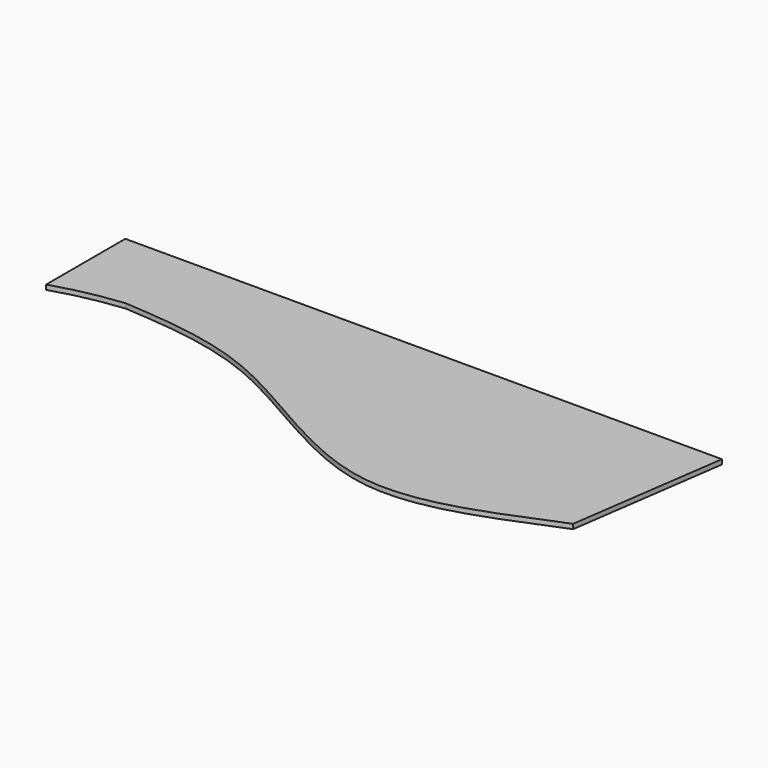
from build123d import *

# Parameters (mm, degrees)
F1_DEPTH = 50.8


with BuildPart() as f1:
    # F0 (on Top) → F1 (new body)
    with BuildSketch(Plane.XY):
        with BuildLine():
            Line((0, 5181.6), (0, 4114.8))
            ThreePointArc((0, 4114.8), (364.2613870406, 4210.519962637), (736.6, 4267.2))
            add(Edge.make_bspline(
                [(6184.2774509804, 3479.8), (5558.7493900267, 3226.3370934063), (4261.2002325915, 2605.0738530334), (2317.9505975893, 4149.0185862678), (1231.0061782159, 4232.3403238661), (736.6, 4267.2)],
                knots=[0, 0, 0, 0, 0.3371317616, 0.6987250434, 1, 1, 1, 1], degree=3))
            Line((6184.2774509804, 3479.8), (6426.2, 5181.6))
            Line((6426.2, 5181.6), (0, 5181.6))
        make_face()
    extrude(amount=F1_DEPTH)


solid = f1.part
